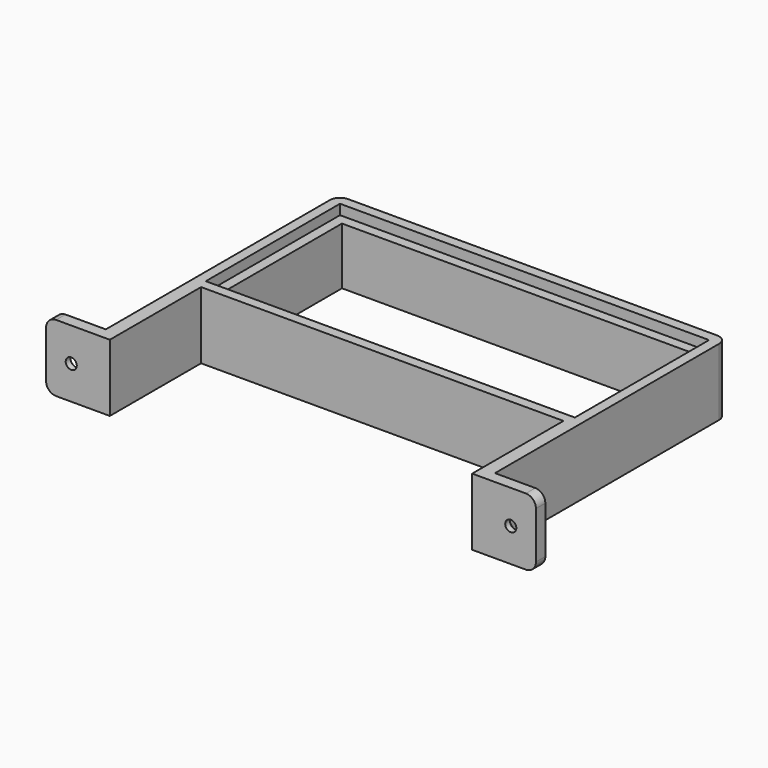
from build123d import *

# Parameters (mm, degrees)
F0_W            = 116
F0_H            = 56
F0_W_2          = 104
F0_H_2          = 44
F1_DEPTH        = 20
F2_W            = 110
F2_H            = 50
F2_W_2          = 104
F2_H_2          = 44
F3_DEPTH        = 3
F4_W            = 4
F4_H            = 20
F5_DEPTH        = 34
F6_W            = 3.5
F6_H            = 20
F7_DEPTH        = 15
F8_W            = 3.5
F8_H            = 20
F9_DEPTH        = 15
F11_D           = 3.3
F11_DEPTH       = 5
F11_CSINK_D     = 6.72
F11_CSINK_ANGLE = 90
F11_TIP         = 0.9914200214
F13_D           = 3.3
F13_DEPTH       = 5
F13_CSINK_D     = 6.72
F13_CSINK_ANGLE = 90
F13_TIP         = 0.9914200214
F14_R           = 3


with BuildPart() as f1:
    # F0 (on Top) → F1 (new body)
    with BuildSketch(Plane.XY):
        Rectangle(F0_W, F0_H)
        Rectangle(F0_W_2, F0_H_2, mode=Mode.SUBTRACT)
    extrude(amount=F1_DEPTH)

    # F2 (on face) → F3 (cut)
    with BuildSketch(Plane.XY.offset(20)):
        Rectangle(F2_W, F2_H)
        Rectangle(F2_W_2, F2_H_2, mode=Mode.SUBTRACT)
    extrude(amount=-F3_DEPTH, mode=Mode.SUBTRACT)

    # F4 (on face) → F5 (join)
    with BuildSketch(Plane.XZ.offset(28)):
        with Locations((-56, 10)):
            Rectangle(F4_W, F4_H)
        with Locations((56, 10)):
            Rectangle(F4_W, F4_H)
    extrude(amount=F5_DEPTH)

    # F6 (on face) → F7 (join)
    with BuildSketch(Plane.YZ.offset(58)):
        with Locations((-60.25, 10)):
            Rectangle(F6_W, F6_H)
    extrude(amount=F7_DEPTH)

    # F8 (on face) → F9 (join)
    with BuildSketch(Plane(origin=(-58, 0, 0), x_dir=(0, -1, 0), z_dir=(-1, 0, 0))):
        with Locations((60.25, 10)):
            Rectangle(F8_W, F8_H)
    extrude(amount=F9_DEPTH)

    # F11
    with Locations(Plane(origin=(0, -58.5, 0), x_dir=(-1, 0, 0), z_dir=(0, 1, 0))):
        with Locations((-65.5, 10)):
            CounterSinkHole(F11_D / 2, F11_CSINK_D / 2, depth=F11_DEPTH, counter_sink_angle=F11_CSINK_ANGLE)
            with Locations((0, 0, -(F11_DEPTH + F11_TIP / 2))):  # 118° drill point
                Cone(0, F11_D / 2, F11_TIP, mode=Mode.SUBTRACT)

    # F13
    with Locations(Plane(origin=(0, -58.5, 0), x_dir=(-1, 0, 0), z_dir=(0, 1, 0))):
        with Locations((65.5, 10)):
            CounterSinkHole(F13_D / 2, F13_CSINK_D / 2, depth=F13_DEPTH, counter_sink_angle=F13_CSINK_ANGLE)
            with Locations((0, 0, -(F13_DEPTH + F13_TIP / 2))):  # 118° drill point
                Cone(0, F13_D / 2, F13_TIP, mode=Mode.SUBTRACT)

    # F14
    f14_edges = [f1.edges().sort_by_distance(p)[0] for p in [
        (58, 28, 10),
        (-58, 28, 10),
        (73, -60.25, 0),
        (73, -60.25, 20),
        (-73, -60.25, 20),
        (-73, -60.25, 0),
    ]]
    fillet(f14_edges, radius=F14_R)


solid = f1.part
